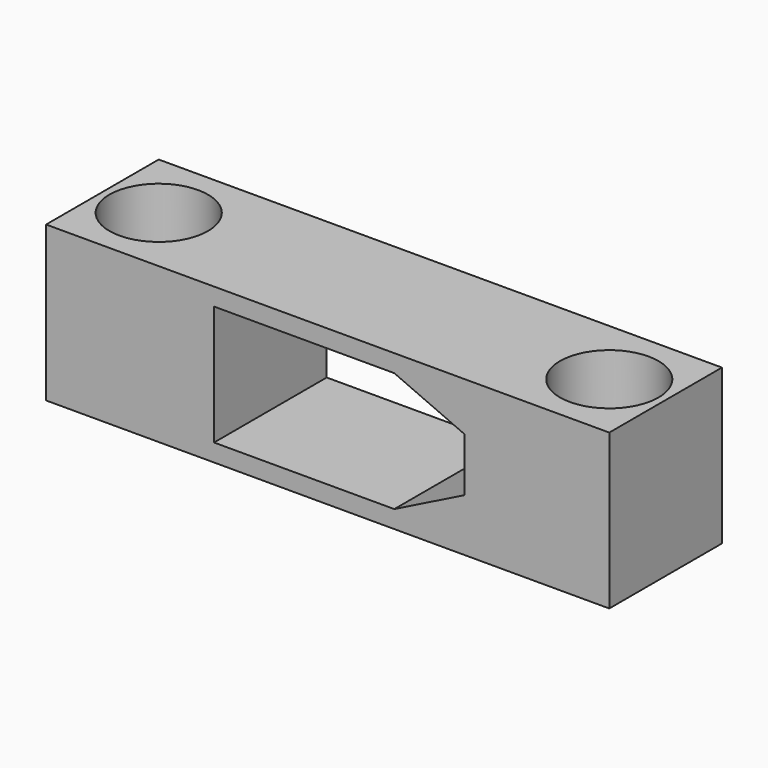
from build123d import *

# Parameters (mm, degrees)
F0_W     = 40
F0_H     = 10
F1_DEPTH = 11
F2_D     = 7
F4_DEPTH = 11


with BuildPart() as f1:
    # F0 (on Top) → F1 (new body)
    with BuildSketch(Plane.XY):
        with Locations((-4.730004333, -2.4905790389)):
            Rectangle(F0_W, F0_H)
    extrude(amount=F1_DEPTH)

    # F2 (through all)
    with Locations(Plane(origin=(0, 0, 0), x_dir=(1, 0, 0), z_dir=(0, 0, -1))):
        with Locations((-20.730004333, 2.4905790389), (11.269995667, 2.4905790389)):
            Hole(F2_D / 2)

    # F3 (on Front) → F4 (cut, symmetric)
    with BuildSketch(Plane.XZ):
        Polygon((0, 9.75), (-12.8, 9.75), (-12.8, 1.25), (0, 1.25), (5.0006634545, 3.75), (5.0006634545, 7.55), align=None)
    extrude(amount=F4_DEPTH, both=True, mode=Mode.SUBTRACT)


with BuildPart() as f5_1:
    # F5: copy of F1
    add(f1.part)


solid = Compound([f1.part, f5_1.part])
